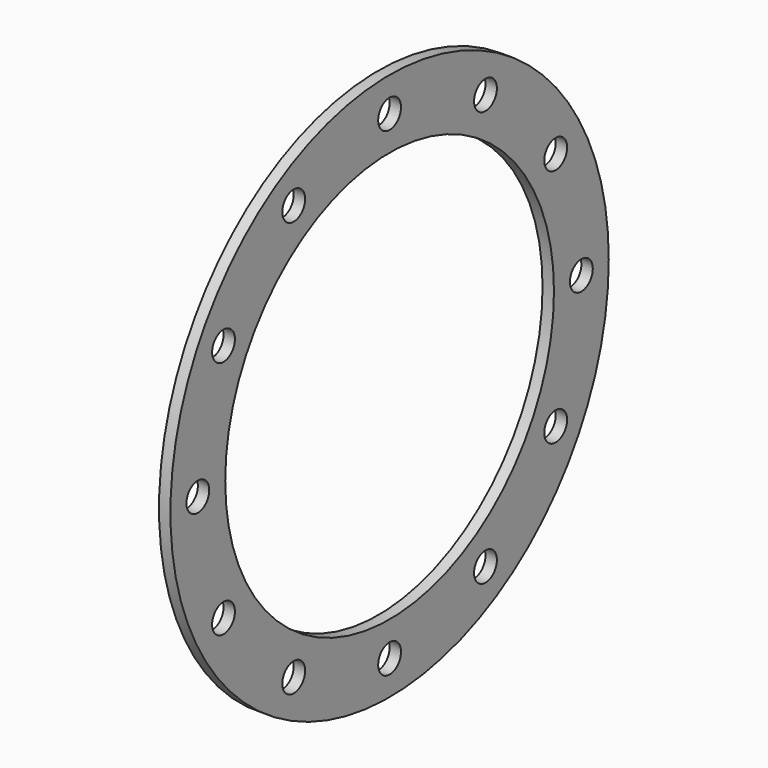
from build123d import *

# Parameters (mm, degrees)
F0_R     = 76.2
F0_R_2   = 3.96875
F0_R_3   = 57.15
F1_DEPTH = 3.175


with BuildPart() as f1:
    # F0 (on Right) → F1 (new body)
    with BuildSketch(Plane.YZ):
        Circle(F0_R)
        with Locations((-33.3375, -57.742244)):
            Circle(F0_R_2, mode=Mode.SUBTRACT)
        with Locations((-57.742244, -33.3375)):
            Circle(F0_R_2, mode=Mode.SUBTRACT)
        with Locations((0, -66.675)):
            Circle(F0_R_2, mode=Mode.SUBTRACT)
        with Locations((33.3375, -57.742244)):
            Circle(F0_R_2, mode=Mode.SUBTRACT)
        with Locations((57.742244, -33.3375)):
            Circle(F0_R_2, mode=Mode.SUBTRACT)
        with Locations((-66.675, 0)):
            Circle(F0_R_2, mode=Mode.SUBTRACT)
        with Locations((-57.742244, 33.3375)):
            Circle(F0_R_2, mode=Mode.SUBTRACT)
        with Locations((-33.3375, 57.742244)):
            Circle(F0_R_2, mode=Mode.SUBTRACT)
        Circle(F0_R_3, mode=Mode.SUBTRACT)
        with Locations((66.675, 0)):
            Circle(F0_R_2, mode=Mode.SUBTRACT)
        with Locations((57.742244, 33.3375)):
            Circle(F0_R_2, mode=Mode.SUBTRACT)
        with Locations((0, 66.675)):
            Circle(F0_R_2, mode=Mode.SUBTRACT)
        with Locations((33.3375, 57.742244)):
            Circle(F0_R_2, mode=Mode.SUBTRACT)
    extrude(amount=F1_DEPTH)


solid = f1.part
